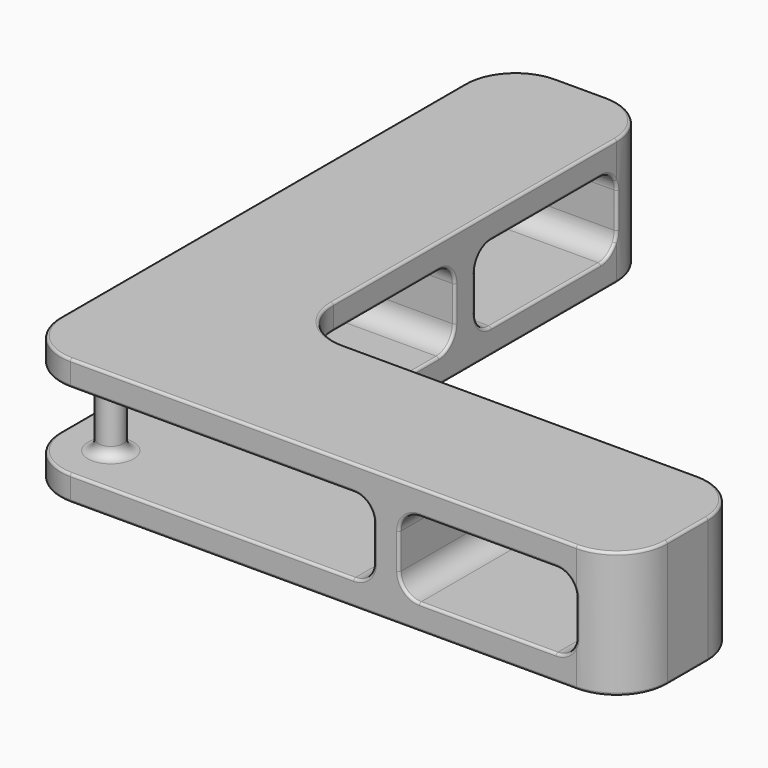
from build123d import *

# Parameters (mm, degrees)
F1_DEPTH = 6.35
F2_DEPTH = 6.35
F4_W     = 38.1
F4_H     = 6.35
F4_W_2   = 6.35
F4_H_2   = 38.1
F5_DEPTH = 25.4
F6_R     = 5.08
F7_R     = 0.635
F8_R     = 3.175
F9_DEPTH = 25.4
F10_R    = 2.54


with BuildPart() as f1:
    # F0 (on Top) → F1 (new body)
    with BuildSketch(Plane.XY):
        with BuildLine():
            Line((0, 139.7), (0, 12.7))
            ThreePointArc((0, 12.7), (3.7197438789, 3.7197438789), (12.7, 0))
            Line((12.7, 0), (139.7, 0))
            ThreePointArc((139.7, 0), (148.6802561211, 3.7197438789), (152.4, 12.7))
            Line((152.4, 12.7), (152.4, 25.4))
            ThreePointArc((152.4, 25.4), (148.6802561211, 34.3802561211), (139.7, 38.1))
            Line((139.7, 38.1), (50.8, 38.1))
            ThreePointArc((50.8, 38.1), (41.8197438789, 41.8197438789), (38.1, 50.8))
            Line((38.1, 50.8), (38.1, 139.7))
            ThreePointArc((38.1, 139.7), (34.3802561211, 148.6802561211), (25.4, 152.4))
            Line((25.4, 152.4), (12.7, 152.4))
            ThreePointArc((12.7, 152.4), (3.7197438789, 148.6802561211), (0, 139.7))
        make_face()
    extrude(amount=F1_DEPTH)


with BuildPart() as f2:
    # F2 (new): a face of the model
    f2_faces = [f1.part.faces().sort_by_distance(p)[0] for p in [
        (32.8562561211, 147.1562561211, 6.35),
    ]]
    extrude(f2_faces, amount=F2_DEPTH)


with BuildPart() as f2_1:
    # F3: moved
    add(f2.part.moved(Location((0, 0, 19.05))))


with BuildPart() as f1_1:
    add(f1.part)

    add(f2_1.part)  # F5 merges F2
    # F4 (on face) → F5 (join)
    with BuildSketch(Plane.XY.offset(31.75)):
        with Locations((19.05, 92.075)):
            Rectangle(F4_W, F4_H)
        with BuildLine():
            Line((0, 139.7), (38.1, 139.7))
            ThreePointArc((38.1, 139.7), (34.3802561211, 148.6802561211), (25.4, 152.4))
            Line((25.4, 152.4), (12.7, 152.4))
            ThreePointArc((12.7, 152.4), (3.7197438789, 148.6802561211), (0, 139.7))
        make_face()
        with BuildLine():
            ThreePointArc((152.4, 25.4), (148.6802561211, 34.3802561211), (139.7, 38.1))
            Line((139.7, 38.1), (139.7, 0))
            ThreePointArc((139.7, 0), (148.6802561211, 3.7197438789), (152.4, 12.7))
            Line((152.4, 12.7), (152.4, 25.4))
        make_face()
        with Locations((92.075, 19.05)):
            Rectangle(F4_W_2, F4_H_2)
    extrude(amount=-F5_DEPTH)

    # F6
    f6_edges = [f1_1.edges().sort_by_distance(p)[0] for p in [
        (19.05, 139.7, 6.35),
        (19.05, 139.7, 25.4),
        (19.05, 95.25, 25.4),
        (19.05, 95.25, 6.35),
        (19.05, 88.9, 25.4),
        (19.05, 88.9, 6.35),
        (88.9, 19.05, 6.35),
        (139.7, 19.05, 6.35),
        (88.9, 19.05, 25.4),
        (139.7, 19.05, 25.4),
        (95.25, 19.05, 25.4),
        (95.25, 19.05, 6.35),
    ]]
    fillet(f6_edges, radius=F6_R)

    # F7
    f7_edges = [f1_1.edges().sort_by_distance(p)[0] for p in [
        (0, 76.2, 31.75),
        (0, 76.2, 0),
        (0, 117.475, 6.35),
        (0, 48.26, 6.35),
        (38.1, 117.475, 25.4),
        (38.1, 67.31, 6.35),
        (117.475, 38.1, 6.35),
        (117.475, 0, 6.35),
    ]]
    fillet(f7_edges, radius=F7_R)

    # F8 (on face) → F9 (join)
    with BuildSketch(Plane.XY.offset(31.75)):
        with Locations((12.7, 12.7)):
            Circle(F8_R)
    extrude(amount=-F9_DEPTH)

    # F10
    f10_edges = [f1_1.edges().sort_by_distance(p)[0] for p in [
        (9.525, 12.7, 25.4),
        (9.525, 12.7, 6.35),
    ]]
    fillet(f10_edges, radius=F10_R)


solid = f1_1.part
